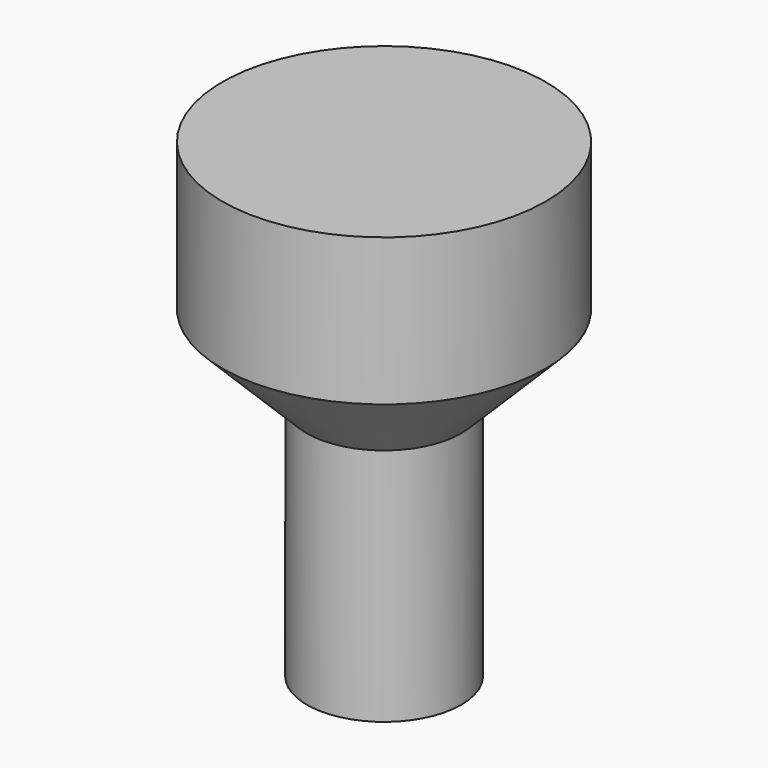
from build123d import *

# Parameters (mm, degrees)
F2_R     = 5.25
F3_DEPTH = 22
F5_START = 22
F4_R     = 11
F5_DEPTH = 10


with BuildPart() as f3:
    # F2 (on Top) → F3 (new body)
    with BuildSketch(Plane.XY):
        Circle(F2_R)
    extrude(amount=F3_DEPTH)

    # F4 (on Top) → F5 (join)
    with BuildSketch(Plane.XY.offset(F5_START)):
        Circle(F4_R)
    extrude(amount=F5_DEPTH)

    # F6 (on Front) → F7 (revolve)
    with BuildSketch(Plane.XZ):
        Polygon((0, 11), (0, 22), (-11, 22), align=None)
    revolve(axis=Axis((0, 0, 16.5), (0, 0, 1)))


solid = f3.part
